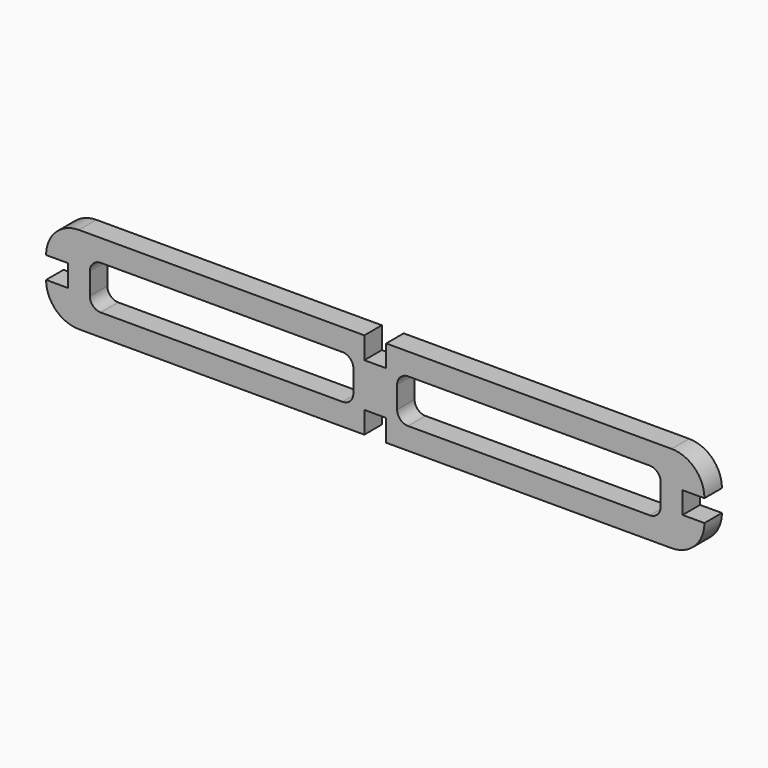
from build123d import *

# Parameters (mm, degrees)
F1_DEPTH = 25.4
F2_W     = 25.4
F2_H     = 25.4
F3_DEPTH = 25.4


with BuildPart() as f1:
    # F0 (on Front) → F1 (new body)
    with BuildSketch(Plane.XZ):
        with BuildLine():
            Line((-382.4224, 12.7), (-357.0224, 12.7))
            Line((-357.0224, 12.7), (-357.0224, -12.7))
            Line((-357.0224, -12.7), (-382.4224, -12.7))
            ThreePointArc((-382.4224, -12.7), (-371.263168, -39.640768), (-344.3224, -50.8))
            Line((-344.3224, -50.8), (0, -50.8))
            Line((0, -50.8), (344.3224, -50.8))
            ThreePointArc((344.3224, -50.8), (371.263168, -39.640768), (382.4224, -12.7))
            Line((382.4224, -12.7), (357.0224, -12.7))
            Line((357.0224, -12.7), (357.0224, 12.7))
            Line((357.0224, 12.7), (382.4224, 12.7))
            ThreePointArc((382.4224, 12.7), (371.263168, 39.640768), (344.3224, 50.8))
            Line((344.3224, 50.8), (0, 50.8))
            Line((0, 50.8), (-344.3224, 50.8))
            ThreePointArc((-344.3224, 50.8), (-371.263168, 39.640768), (-382.4224, 12.7))
        make_face()
        with BuildLine():
            Line((-38.1, -25.4), (-318.9224, -25.4))
            ThreePointArc((-318.9224, -25.4), (-327.902656, -21.680256), (-331.6224, -12.7))
            Line((-331.6224, -12.7), (-331.6224, 12.7))
            ThreePointArc((-331.6224, 12.7), (-327.902656, 21.680256), (-318.9224, 25.4))
            Line((-318.9224, 25.4), (-38.1, 25.4))
            ThreePointArc((-38.1, 25.4), (-29.119744, 21.680256), (-25.4, 12.7))
            Line((-25.4, 12.7), (-25.4, -12.7))
            ThreePointArc((-25.4, -12.7), (-29.119744, -21.680256), (-38.1, -25.4))
        make_face(mode=Mode.SUBTRACT)
        with BuildLine():
            ThreePointArc((331.6224, -12.7), (327.902656, -21.680256), (318.9224, -25.4))
            Line((318.9224, -25.4), (38.1, -25.4))
            ThreePointArc((38.1, -25.4), (29.119744, -21.680256), (25.4, -12.7))
            Line((25.4, -12.7), (25.4, 12.7))
            ThreePointArc((25.4, 12.7), (29.119744, 21.680256), (38.1, 25.4))
            Line((38.1, 25.4), (318.9224, 25.4))
            ThreePointArc((318.9224, 25.4), (327.902656, 21.680256), (331.6224, 12.7))
            Line((331.6224, 12.7), (331.6224, -12.7))
        make_face(mode=Mode.SUBTRACT)
    extrude(amount=F1_DEPTH)

    # F2 (on face) → F3 (cut)
    with BuildSketch(Plane.XZ.offset(25.4)):
        with Locations((0, 38.1)):
            Rectangle(F2_W, F2_H)
        with Locations((0, -38.1)):
            Rectangle(F2_W, F2_H)
    extrude(amount=-F3_DEPTH, mode=Mode.SUBTRACT)


solid = f1.part
